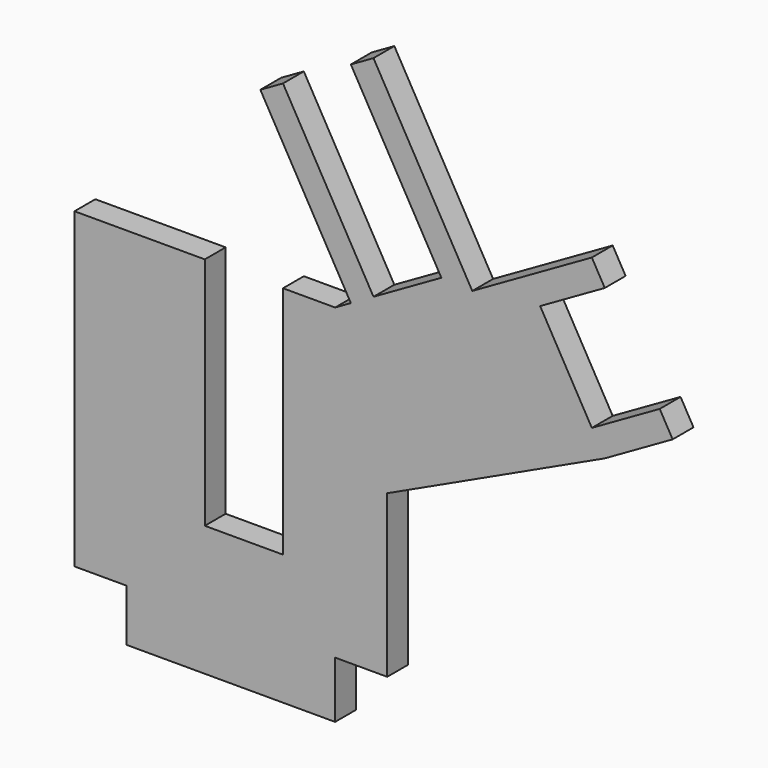
from build123d import *

# Parameters (mm, degrees)
F1_DEPTH = 5


with BuildPart() as f1:
    # F0 (on Front) → F1 (new body)
    with BuildSketch(Plane.XZ):
        Polygon((-19.796304, -24.440701), (-19.796304, -34.440701), (20.203696, -34.440701), (20.203696, -23.573612), (30.203696, -23.573612), (30.203696, 7.438887), (71.944271, 26.902837), (84.967918, 34.344921), (82.487223, 38.686137), (69.463576, 31.244052), (59.547261, 48.597605), (71.944271, 55.681611), (69.463576, 60.022827), (46.520796, 46.912666), (27.568559, 80.079081), (23.227343, 77.598386), (40.592206, 47.209876), (27.568559, 39.767792), (10.203696, 70.156302), (5.86248, 67.675608), (23.227343, 37.287098), (20.203696, 35.559299), (10.203696, 35.559299), (10.203696, -9.440701), (-4.796304, -9.440701), (-4.796304, 35.559299), (-29.796304, 35.559299), (-29.796304, -24.440701), align=None)
    extrude(amount=F1_DEPTH)


solid = f1.part
